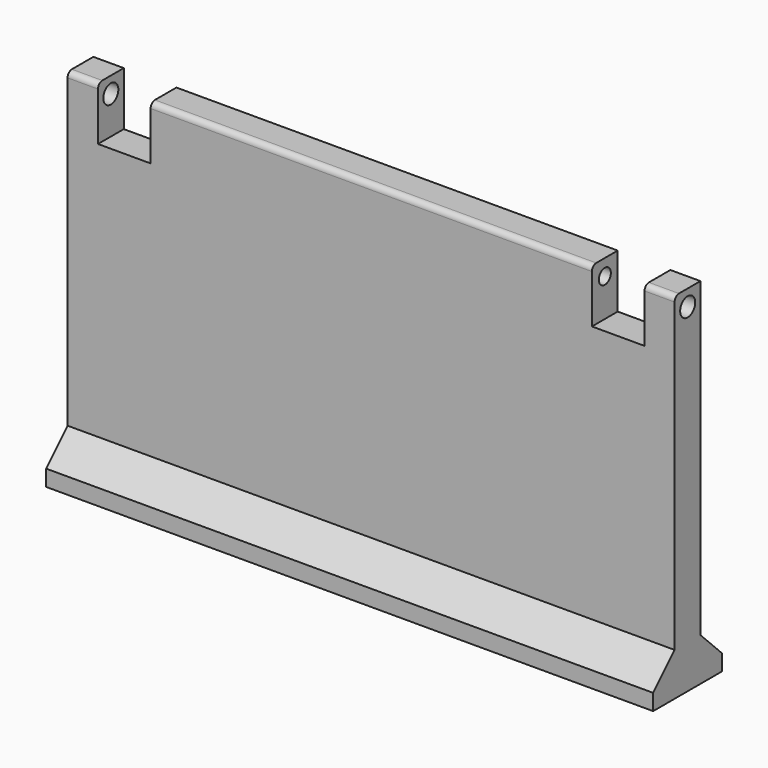
from build123d import *

# Parameters (mm, degrees)
PAD_DEPTH       = 56.5
SKETCH049_W     = 9.963656
SKETCH049_H     = 4.853651
SKETCH049_W_2   = 14.419268
SKETCH049_H_2   = 9.8
SKETCH049_W_3   = 14.165799
SKETCH049_W_4   = 9.249737
SKETCH049_H_3   = 3.2
POCKET033_DEPTH = 10
SKETCH050_R     = 1.4
POCKET034_DEPTH = 113.001
SKETCH051_R     = 1.75
POCKET035_DEPTH = 7
SKETCH052_R     = 1.75
POCKET036_DEPTH = 7
SKETCH053_R     = 1.9
POCKET037_DEPTH = 10
FILLET_R        = 1


with BuildPart() as part:
    # Sketch041 → Pad (new body, symmetric)
    with BuildSketch(Plane.YZ):
        Polygon((-11, 0), (-11, 3), (-6, 8), (-6, 66), (0, 66), (0, 8), (5, 3), (5, 0), (0, 0), align=None)
    extrude(amount=PAD_DEPTH, both=True)

    # Sketch049 (on Face4 of Pad) → Pocket033 (cut)
    with BuildSketch(Plane(origin=(0, 0, 66), x_dir=(0, -1, 0), z_dir=(0, 0, 1))):
        with Locations((1.82395, 59.0693)):
            Rectangle(SKETCH049_W, SKETCH049_H)
        with Locations((2.618054, 46.004022)):
            Rectangle(SKETCH049_W_2, SKETCH049_H_2)
        with Locations((0.916195, -45.939361)):
            Rectangle(SKETCH049_W_3, SKETCH049_H_2)
        with Locations((2.129443, -58.515822)):
            Rectangle(SKETCH049_W_4, SKETCH049_H_3)
    extrude(amount=-POCKET033_DEPTH, mode=Mode.SUBTRACT)

    # Sketch050 (on Face5 of Pocket033) → Pocket034 (cut, through all)
    with BuildSketch(Plane.YZ.offset(56.5)):
        with Locations((-3, 63)):
            Circle(SKETCH050_R)
    extrude(amount=-POCKET034_DEPTH, mode=Mode.SUBTRACT)

    # Sketch051 (on Face5 of Pocket034) → Pocket035 (cut)
    with BuildSketch(Plane.YZ.offset(56.5)):
        with Locations((-2.965743, 62.998383)):
            Circle(SKETCH051_R)
    extrude(amount=-POCKET035_DEPTH, mode=Mode.SUBTRACT)

    # Sketch052 (on Face4 of Pocket035) → Pocket036 (cut)
    with BuildSketch(Plane(origin=(-56.5, 0, 0), x_dir=(0, 1, 0), z_dir=(-1, 0, 0))):
        with Locations((-3.013862, -62.999382)):
            Circle(SKETCH052_R)
    extrude(amount=-POCKET036_DEPTH, mode=Mode.SUBTRACT)

    # Sketch053 (on Face2 of Pocket036) → Pocket037 (cut)
    with BuildSketch(Plane.YX):
        with Locations((-3, 40)):
            Circle(SKETCH053_R)
        with Locations((-3, -40)):
            Circle(SKETCH053_R)
    extrude(amount=-POCKET037_DEPTH, mode=Mode.SUBTRACT)

    # Fillet
    fillet_edges = [part.edges().sort_by_distance(p)[0] for p in [
        (0.03233, -6, 66),
        (53.702011, -6, 66),
        (-53.66968, -6, 66),
    ]]
    fillet(fillet_edges, radius=FILLET_R)


with BuildPart() as part_1:
    # Body placement: moved
    add(part.part.moved(Location((-1.5, 0, 0))))


solid = part_1.part
